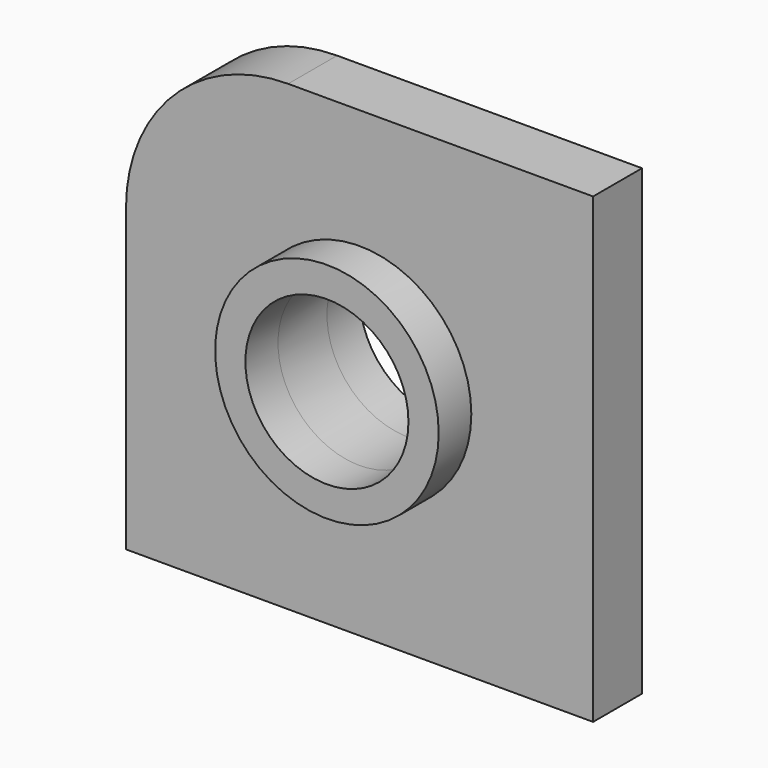
from build123d import *

# Parameters (mm, degrees)
F1_DEPTH = 19.05
F2_R     = 25.4
F3_DEPTH = 19.051
F4_R     = 34.8245853093
F4_R_2   = 25.4
F5_DEPTH = 12.7
F6_R     = 34.3660006983
F6_R_2   = 25.4
F7_DEPTH = 12.7


with BuildPart() as f1:
    # F0 (on Front) → F1 (new body)
    with BuildSketch(Plane.XZ):
        with BuildLine():
            Line((72.7557316422, 72.0507353544), (-22.2322288666, 72.0507353544))
            ThreePointArc((-22.2322288666, 72.0507353544), (-57.9577402886, 57.2527440007), (-72.7557316422, 21.5272325788))
            Line((-72.7557316422, 21.5272325788), (-72.7557316422, -72.0507353544))
            Line((-72.7557316422, -72.0507353544), (72.7557316422, -72.0507353544))
            Line((72.7557316422, -72.0507353544), (72.7557316422, 72.0507353544))
        make_face()
    extrude(amount=F1_DEPTH)

    # F2 (on face) → F3 (cut, through all)
    with BuildSketch(Plane.XZ.offset(19.05)):
        Circle(F2_R)
    extrude(amount=-F3_DEPTH, mode=Mode.SUBTRACT)


with BuildPart() as f5:
    # F4 (on face) → F5 (new body)
    with BuildSketch(Plane.XZ.offset(19.05)):
        Circle(F4_R)
        Circle(F4_R_2, mode=Mode.SUBTRACT)
    extrude(amount=F5_DEPTH)


with BuildPart() as f7:
    # F6 (on Front) → F7 (new body)
    with BuildSketch(Plane.XZ):
        Circle(F6_R)
        Circle(F6_R_2, mode=Mode.SUBTRACT)
    extrude(amount=-F7_DEPTH)


solid = Compound([f1.part, f5.part, f7.part])
